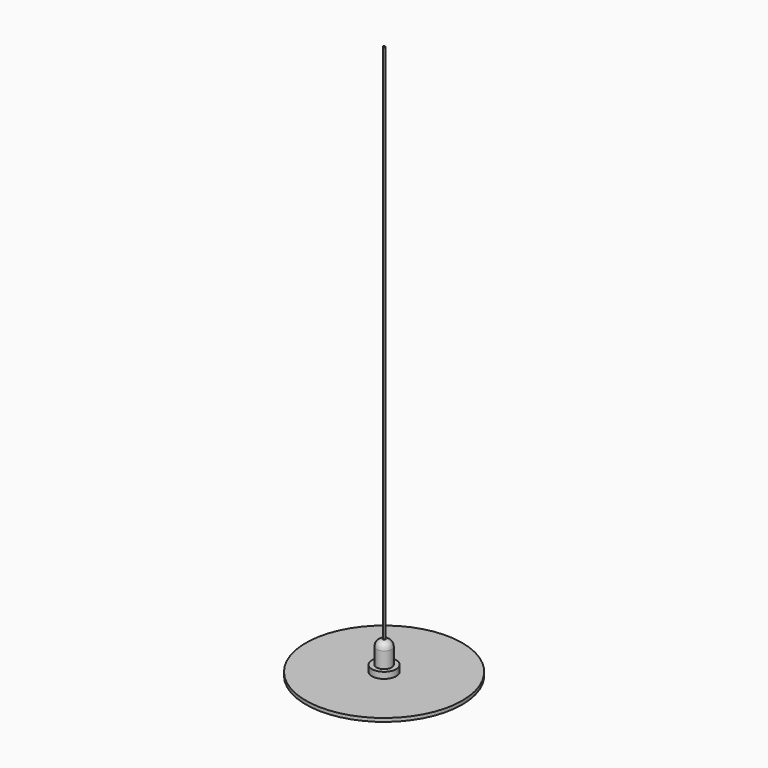
from build123d import *

# Parameters (mm, degrees)
F0_R     = 225
F0_R_2   = 21
F1_DEPTH = 10
F2_R     = 35
F2_R_2   = 21
F3_DEPTH = 18
F8_R     = 3
F9_DEPTH = 1500


with BuildPart() as f1:
    # F0 (on Top) → F1 (new body)
    with BuildSketch(Plane.XY):
        Circle(F0_R)
        Circle(F0_R_2, mode=Mode.SUBTRACT)
    extrude(amount=F1_DEPTH)


with BuildPart() as f3:
    # F2 (on face) → F3 (new body)
    with BuildSketch(Plane.XY.offset(10)):
        Circle(F2_R)
        Circle(F2_R_2, mode=Mode.SUBTRACT)
    extrude(amount=F3_DEPTH)


with BuildPart() as f5:
    # F4 (on Front) → F5 (revolve)
    with BuildSketch(Plane.XZ):
        with BuildLine():
            Line((-21.818178, 28), (0, 28))
            Line((0, 28), (0, 93))
            Line((0, 93), (-6.315121, 93))
            ThreePointArc((-6.315121, 93), (-17.454959, 86.194798), (-21.818178, 73.891584))
            Line((-21.818178, 73.891584), (-21.818178, 28))
        make_face()
    revolve(axis=Axis((0, 0, 60.5), (0, 0, 1)))


with BuildPart() as f7:
    # F6 (on Front) → F7 (revolve)
    with BuildSketch(Plane.XZ):
        with BuildLine():
            Line((0, 0), (-21, 0))
            ThreePointArc((-21, 0), (-38.482227, -44.958218), (0, -74.044089))
            Line((0, -74.044089), (0, 0))
        make_face()
    revolve(axis=Axis((0, 0, -37.022045), (0, 0, -1)))


with BuildPart() as f9:
    # F8 (on face) → F9 (new body)
    with BuildSketch(Plane.XY.offset(93)):
        Circle(F8_R)
    extrude(amount=F9_DEPTH)


solid = Compound([f1.part, f3.part, f5.part, f7.part, f9.part])
